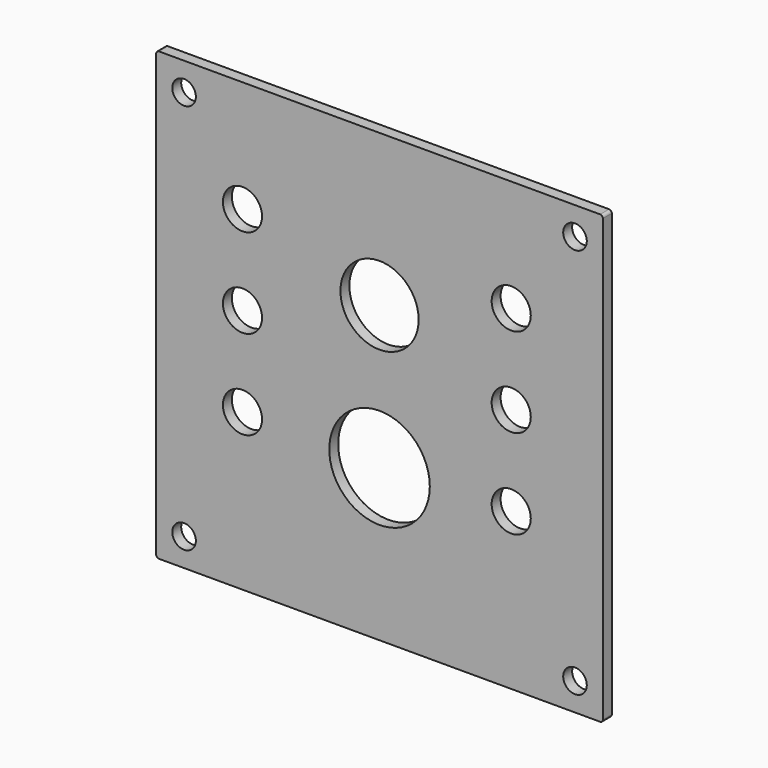
from build123d import *

# Parameters (mm, degrees)
F0_R     = 3.3528
F0_R_2   = 5.5626
F0_R_3   = 14.29385
F0_R_4   = 11.11885
F1_DEPTH = 3.175


with BuildPart() as f1:
    # F0 (on Front) → F1 (new body)
    with BuildSketch(Plane.XZ):
        with BuildLine():
            ThreePointArc((0, 0.7874), (0.230624, 0.230624), (0.7874, 0))
            Line((0.7874, 0), (126.2126, 0))
            ThreePointArc((126.2126, 0), (126.769376, 0.230624), (127, 0.7874))
            Line((127, 0.7874), (127, 126.2126))
            ThreePointArc((127, 126.2126), (126.769376, 126.769376), (126.2126, 127))
            Line((126.2126, 127), (0.7874, 127))
            ThreePointArc((0.7874, 127), (0.230624, 126.769376), (0, 126.2126))
            Line((0, 126.2126), (0, 0.7874))
        make_face()
        with Locations((7.9248, 7.9248)):
            Circle(F0_R, mode=Mode.SUBTRACT)
        with Locations((24.5364, 44.45)):
            Circle(F0_R_2, mode=Mode.SUBTRACT)
        with Locations((119.0752, 7.9248)):
            Circle(F0_R, mode=Mode.SUBTRACT)
        with Locations((63.5, 43.1546)):
            Circle(F0_R_3, mode=Mode.SUBTRACT)
        with Locations((100.9396, 44.45)):
            Circle(F0_R_2, mode=Mode.SUBTRACT)
        with Locations((24.5364, 69.85)):
            Circle(F0_R_2, mode=Mode.SUBTRACT)
        with Locations((24.5364, 95.25)):
            Circle(F0_R_2, mode=Mode.SUBTRACT)
        with Locations((7.9248, 119.0752)):
            Circle(F0_R, mode=Mode.SUBTRACT)
        with Locations((63.5, 83.8454)):
            Circle(F0_R_4, mode=Mode.SUBTRACT)
        with Locations((100.9396, 69.85)):
            Circle(F0_R_2, mode=Mode.SUBTRACT)
        with Locations((100.9396, 95.25)):
            Circle(F0_R_2, mode=Mode.SUBTRACT)
        with Locations((119.0752, 119.0752)):
            Circle(F0_R, mode=Mode.SUBTRACT)
    extrude(amount=F1_DEPTH)


solid = f1.part
